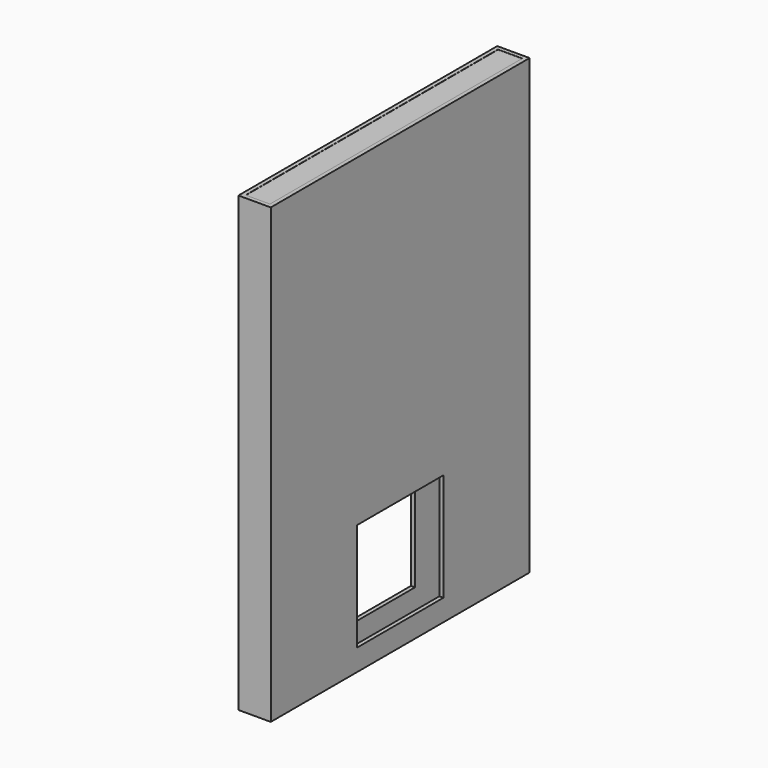
from build123d import *

# Parameters (mm, degrees)
F0_W     = 152.4
F0_H     = 1524
F0_W_2   = 114.3
F0_H_2   = 1485.9
F1_DEPTH = 2133.6
F2_W     = 114.3
F2_H     = 19.05
F3_DEPTH = 1485.9
F5_DEPTH = 25.4
F7_DEPTH = 177.8


with BuildPart() as f1:
    # F0 (on Top) → F1 (new body)
    with BuildSketch(Plane.XY):
        Rectangle(F0_W, F0_H)
        Rectangle(F0_W_2, F0_H_2, mode=Mode.SUBTRACT)
    extrude(amount=F1_DEPTH)

    # F2 (on face) → F3 (join)
    with BuildSketch(Plane(origin=(0, -742.95, 0), x_dir=(-1, 0, 0), z_dir=(0, 1, 0))):
        with Locations((0, 2123.313)):
            Rectangle(F2_W, F2_H)
    extrude(amount=F3_DEPTH)

    # F4 (on face) → F5 (cut)
    with BuildSketch(Plane(origin=(-76.2, 0, 0), x_dir=(0, -1, 0), z_dir=(-1, 0, 0))):
        with BuildLine():
            ThreePointArc((30.226, 1625.6), (21.37301, 1646.97301), (0, 1655.826))
            ThreePointArc((0, 1655.826), (-21.37301, 1604.22699), (30.226, 1625.6))
        make_face()
    extrude(amount=-F5_DEPTH, mode=Mode.SUBTRACT)

    # F6 (on face) → F7 (cut)
    with BuildSketch(Plane(origin=(-76.2, 0, 0), x_dir=(0, -1, 0), z_dir=(-1, 0, 0))):
        Polygon((-254, 101.6), (0, 101.6), (254, 101.6), (254, 609.6), (-254, 609.6), align=None)
    extrude(amount=-F7_DEPTH, mode=Mode.SUBTRACT)


solid = f1.part
